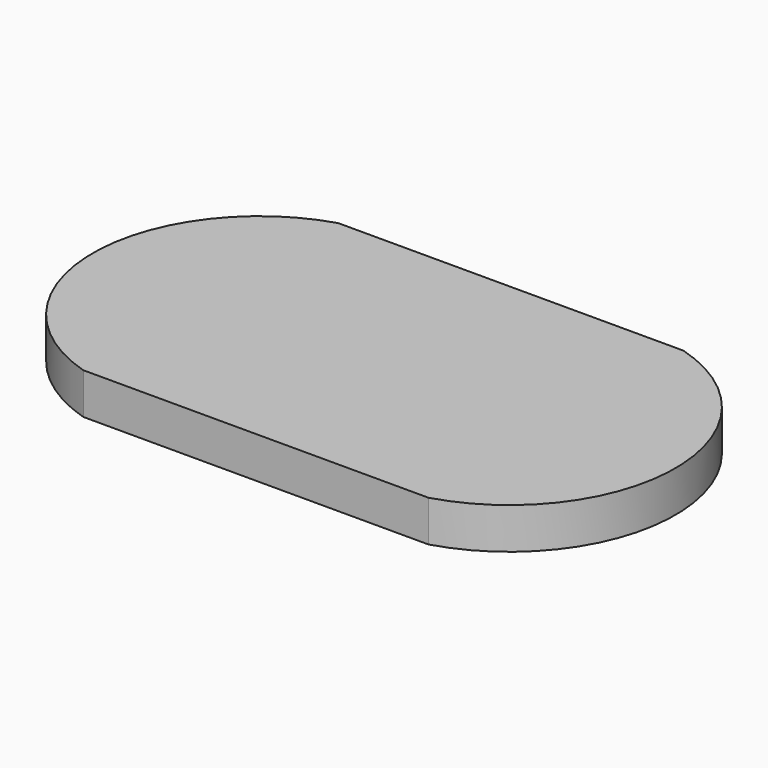
from build123d import *

# Parameters (mm, degrees)
F1_DEPTH = 1
F3_DEPTH = 0.55


with BuildPart() as f1:
    # F0 (on Top) → F1 (new body)
    with BuildSketch(Plane.XY):
        with BuildLine():
            Line((-6.5, -6), (6.5, -6))
            ThreePointArc((6.5, -6), (10.996041, 0), (6.5, 6))
            Line((6.5, 6), (-6.5, 6))
            ThreePointArc((-6.5, 6), (-10.943316, 0), (-6.5, -6))
        make_face()
    extrude(amount=F1_DEPTH)

    # F2 (on face) → F3 (join)
    with BuildSketch(Plane.XY.offset(1)):
        with BuildLine():
            Line((6.5, 6), (-6.5, 6))
            ThreePointArc((-6.5, 6), (-10.943316, 0), (-6.5, -6))
            Line((-6.5, -6), (6.5, -6))
            ThreePointArc((6.5, -6), (10.996041, 0), (6.5, 6))
        make_face()
    extrude(amount=F3_DEPTH)


solid = f1.part
